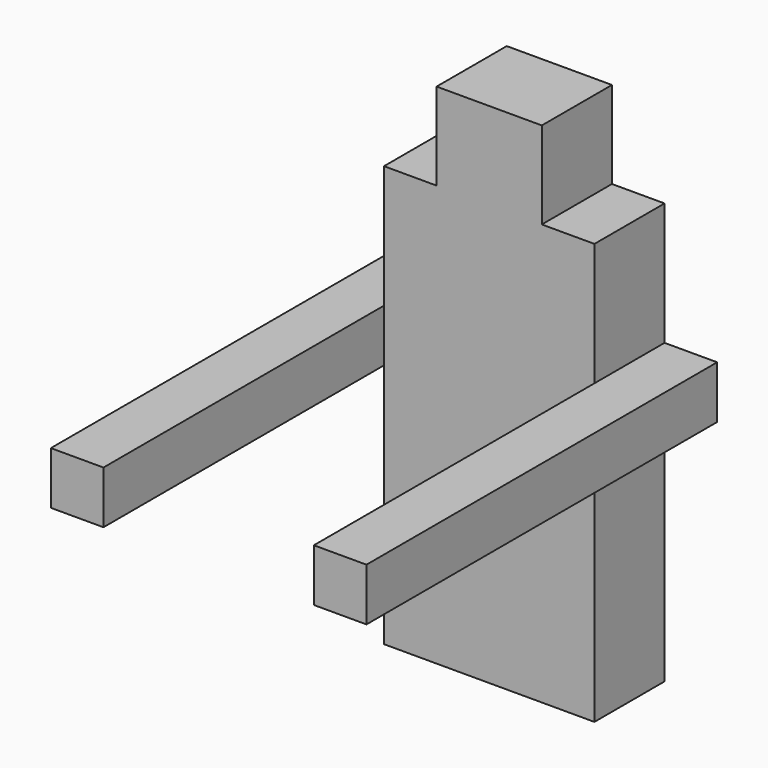
from build123d import *

# Parameters (mm, degrees)
F2_DEPTH  = 12.7
F3_W      = 7.62
F3_H      = 7.62
F4_DEPTH  = 63.5
F8_DEPTH  = 6.35
F10_DEPTH = 6.35
F11_W     = 25.908
F11_H     = 8.128
F12_DEPTH = 53.34


with BuildPart() as f2:
    # F0 (on Front) → F2 (new body)
    with BuildSketch(Plane.XZ):
        Polygon((0, 60.96), (0, 0), (30.48, 0), (30.48, 60.96), (22.86, 60.96), (22.86, 73.58956), (7.62, 73.58956), (7.62, 60.96), align=None)
    extrude(amount=F2_DEPTH)

    # F11 (on face) → F12 (cut)
    with BuildSketch(Plane(origin=(0, 0, 0), x_dir=(1, 0, 0), z_dir=(0, 0, -1))):
        with Locations((15.24, 6.35)):
            Rectangle(F11_W, F11_H)
    extrude(amount=-F12_DEPTH, mode=Mode.SUBTRACT)


with BuildPart() as f4:
    # F3 (on Front) → F4 (new body)
    with BuildSketch(Plane.XZ):
        with Locations((-3.81, 39.37)):
            Rectangle(F3_W, F3_H)
        with Locations((34.29, 39.37)):
            Rectangle(F3_W, F3_H)
    extrude(amount=F4_DEPTH)

    # F5 (on face) → F8 (cut)
    with BuildSketch(Plane(origin=(0, 0, 35.56), x_dir=(1, 0, 0), z_dir=(0, 0, -1))):
        with BuildLine():
            ThreePointArc((-0.762, 57.15), (-5.965261, 59.305261), (-3.81, 54.102))
            ThreePointArc((-3.81, 54.102), (-1.654739, 54.994739), (-0.762, 57.15))
        make_face()
    extrude(amount=-F8_DEPTH, mode=Mode.SUBTRACT)

    # F6 (on face) → F10 (cut)
    with BuildSketch(Plane(origin=(0, 0, 35.56), x_dir=(1, 0, 0), z_dir=(0, 0, -1))):
        with BuildLine():
            ThreePointArc((37.338, 57.15), (32.134739, 59.305261), (34.29, 54.102))
            ThreePointArc((34.29, 54.102), (36.445261, 54.994739), (37.338, 57.15))
        make_face()
    extrude(amount=-F10_DEPTH, mode=Mode.SUBTRACT)


solid = Compound([f2.part, f4.part])
